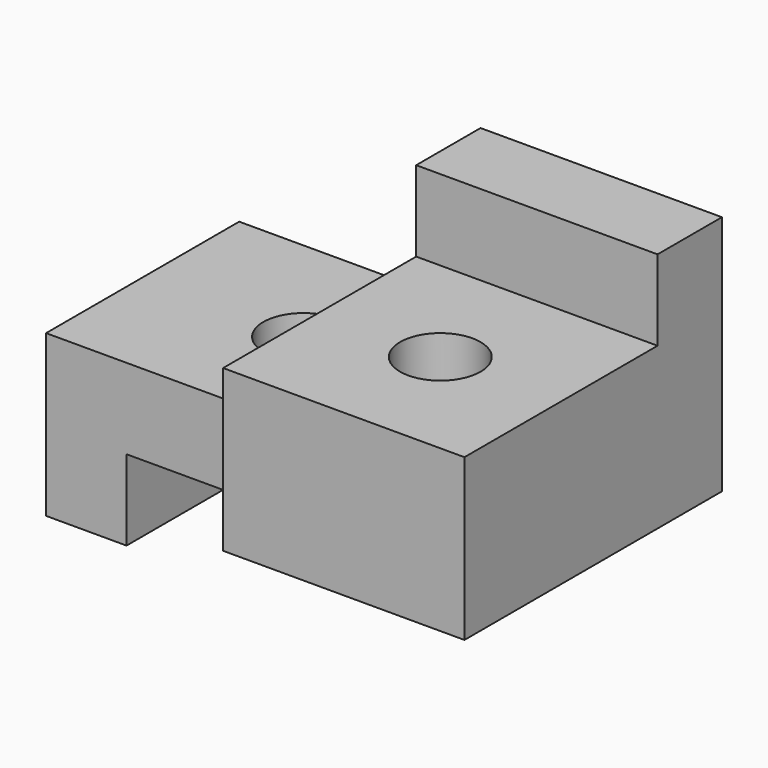
from build123d import *

# Parameters (mm, degrees)
F0_W     = 19.05
F0_H     = 6.35
F1_DEPTH = 6.35
F2_DEPTH = 25.4
F3_DEPTH = 19.05
F4_R     = 3.175
F5_DEPTH = 19.051


with BuildPart() as f1:
    # F0 (on Front) → F1 (new body)
    with BuildSketch(Plane.XZ):
        with Locations((28.575, 22.225)):
            Rectangle(F0_W, F0_H)
    extrude(amount=F1_DEPTH)

    # F0 (on Front) → F2 (join)
    with BuildSketch(Plane.XZ):
        Polygon((19.05, 19.05), (19.05, 12.7), (19.05, 6.35), (38.1, 6.35), (38.1, 19.05), align=None)
    extrude(amount=F2_DEPTH)

    # F0 (on Front) → F3 (join)
    with BuildSketch(Plane.XZ):
        Polygon((0, 12.7), (0, 0), (6.35, 0), (6.35, 6.35), (19.05, 6.35), (19.05, 12.7), align=None)
    extrude(amount=F3_DEPTH)

    # F4 (on face) → F5 (cut, through all)
    with BuildSketch(Plane.XY.offset(19.05)):
        with Locations((28.575, -15.875)):
            Circle(F4_R)
        with Locations((12.7, -9.525)):
            Circle(F4_R)
    extrude(amount=-F5_DEPTH, mode=Mode.SUBTRACT)


solid = f1.part
